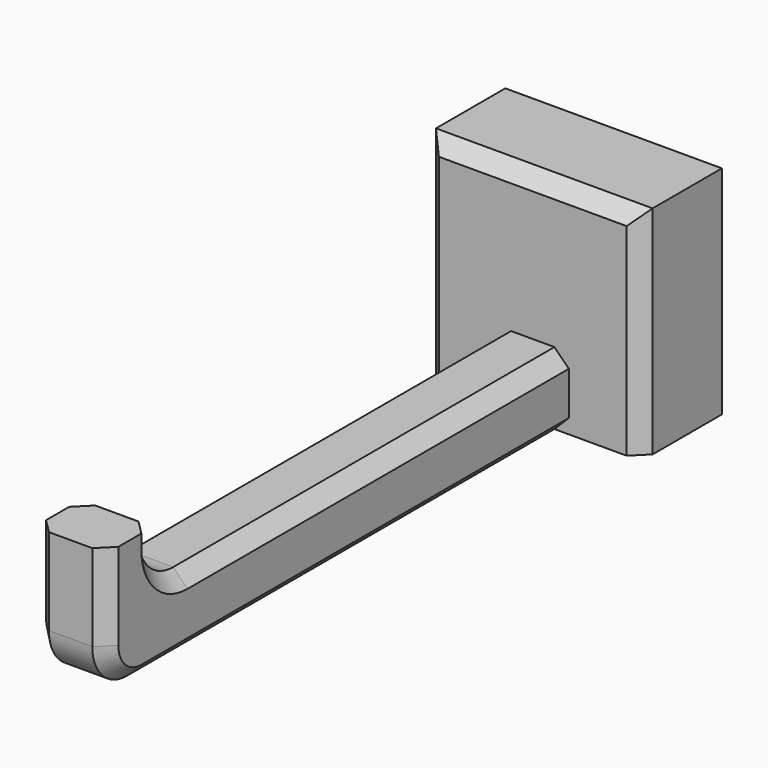
from build123d import *

# Parameters (mm, degrees)
SKETCH_W        = 15
SKETCH_H        = 15
PAD_DEPTH       = 7
SKETCH001_W     = 5
SKETCH001_H     = 5
PAD001_DEPTH    = 40
SKETCH002_W     = 5
SKETCH002_H     = 4
PAD002_DEPTH    = 4
CHAMFER_SIZE    = 1
FILLET_R        = 3
CHAMFER001_SIZE = 1
CHAMFER002_SIZE = 1


with BuildPart() as part:
    # Sketch → Pad (new body)
    with BuildSketch(Plane.XZ):
        with Locations((0, -7.5)):
            Rectangle(SKETCH_W, SKETCH_H)
    extrude(amount=PAD_DEPTH)

    # Sketch001 (on Face6 of Pad) → Pad001 (join)
    with BuildSketch(Plane.XZ.offset(7)):
        with Locations((0, -12.5)):
            Rectangle(SKETCH001_W, SKETCH001_H)
    extrude(amount=PAD001_DEPTH)

    # Sketch002 (on Face7 of Pad001) → Pad002 (join)
    with BuildSketch(Plane(origin=(0, 0, -10), x_dir=(-1, 0, 0), z_dir=(0, 0, 1))):
        with Locations((0, 45)):
            Rectangle(SKETCH002_W, SKETCH002_H)
    extrude(amount=PAD002_DEPTH)

    # Chamfer
    chamfer_edges = [part.edges().sort_by_distance(p)[0] for p in [
        (0, -7, 0),
        (-7.5, -7, -7.5),
        (7.5, -7, -7.5),
    ]]
    chamfer(chamfer_edges, length=CHAMFER_SIZE)

    # Fillet
    fillet_edges = [part.edges().sort_by_distance(p)[0] for p in [
        (0, -43, -10),
        (0, -47, -15),
    ]]
    fillet(fillet_edges, radius=FILLET_R)

    # Chamfer001
    chamfer001_edges = [part.edges().sort_by_distance(p)[0] for p in [
        (2.5, -25.5, -15),
        (-2.5, -25.5, -15),
    ]]
    chamfer(chamfer001_edges, length=CHAMFER001_SIZE)

    # Chamfer002
    chamfer002_edges = [part.edges().sort_by_distance(p)[0] for p in [
        (2.5, -23.5, -10),
        (-2.5, -23.5, -10),
    ]]
    chamfer(chamfer002_edges, length=CHAMFER002_SIZE)


solid = part.part
